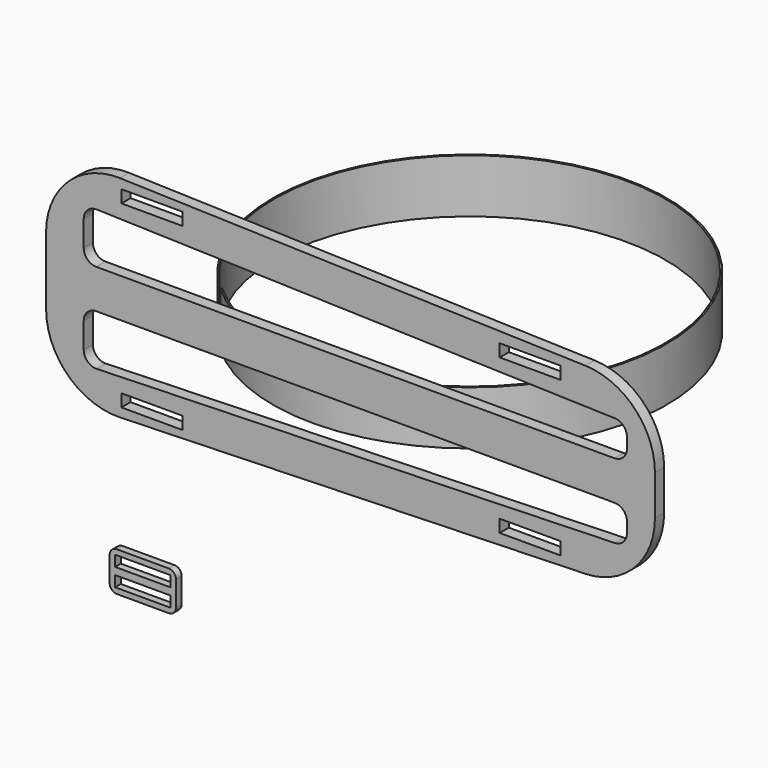
from build123d import *

# Parameters (mm, degrees)
F0_W     = 17
F0_H     = 3.5
F1_DEPTH = 3.2
F2_W     = 15.5
F2_H     = 3
F3_DEPTH = 2
F5_DEPTH = 15


with BuildPart() as f1:
    # F0 (on Front) → F1 (new body)
    with BuildSketch(Plane.XZ):
        with BuildLine():
            ThreePointArc((-43.80942, 52.71233), (-58.331431, 47.07027), (-64.399472, 32.721036))
            Line((-64.399472, 32.721036), (-64.399472, 23.318184))
            Line((-64.399472, 23.318184), (105.526528, 23.306376))
            Line((105.526528, 23.306376), (105.526528, 28.886212))
            ThreePointArc((105.526528, 28.886212), (99.875762, 42.818171), (86.11658, 48.877506))
            Line((86.11658, 48.877506), (-43.80942, 52.71233))
        make_face()
        Polygon((-26.371657, 50.131083), (-26.372144, 46.631083), (-43.372144, 46.633446), (-43.371657, 50.133446), align=None, mode=Mode.SUBTRACT)
        with BuildLine():
            ThreePointArc((94.324163, 38.6309), (96.73202, 37.570517), (97.720904, 35.132424))
            Line((97.720904, 35.132424), (97.720904, 32.268037))
            ThreePointArc((97.720904, 32.268037), (96.695777, 29.793163), (94.220904, 28.768037))
            Line((94.220904, 28.768037), (-50.392183, 28.768037))
            ThreePointArc((-50.392183, 28.768037), (-52.867057, 29.793163), (-53.892183, 32.268037))
            Line((-53.892183, 32.268037), (-53.892183, 39.400744))
            ThreePointArc((-53.892183, 39.400744), (-52.830276, 41.91186), (-50.288924, 42.899221))
            Line((-50.288924, 42.899221), (94.324163, 38.6309))
        make_face(mode=Mode.SUBTRACT)
        Polygon((62.195953, 43.118775), (62.196439, 46.618775), (79.196439, 46.616412), (79.195953, 43.116412), align=None, mode=Mode.SUBTRACT)
        with BuildLine():
            Line((105.526528, 23.306376), (-64.399472, 23.318184))
            Line((-64.399472, 23.318184), (-64.399472, 13.915332))
            ThreePointArc((-64.399472, 13.915332), (-58.332734, -0.432637), (-43.81305, -6.076069))
            Line((-43.81305, -6.076069), (86.112949, -2.26486))
            ThreePointArc((86.112949, -2.26486), (99.874497, 3.79328), (105.526528, 17.726541))
            Line((105.526528, 17.726541), (105.526528, 23.306376))
        make_face()
        with Locations((-34.875384, -1.75)):
            Rectangle(F0_W, F0_H, mode=Mode.SUBTRACT)
        with Locations((70.6932, 1.75)):
            Rectangle(F0_W, F0_H, mode=Mode.SUBTRACT)
        with BuildLine():
            Line((-50.392941, 17.866385), (94.220145, 17.846288))
            ThreePointArc((94.220145, 17.846288), (96.694876, 16.820817), (97.719658, 14.345801))
            Line((97.719658, 14.345801), (97.71926, 11.481414))
            ThreePointArc((97.71926, 11.481414), (96.730038, 9.043459), (94.322033, 7.98341))
            Line((94.322033, 7.98341), (-50.291646, 3.735186))
            ThreePointArc((-50.291646, 3.735186), (-52.83286, 4.7229), (-53.894419, 7.234163))
            Line((-53.894419, 7.234163), (-53.893427, 14.366871))
            ThreePointArc((-53.893427, 14.366871), (-52.867957, 16.841602), (-50.392941, 17.866385))
        make_face(mode=Mode.SUBTRACT)
    extrude(amount=F1_DEPTH)


with BuildPart() as f3:
    # F2 (on Front) → F3 (new body)
    with BuildSketch(Plane.XZ):
        with BuildLine():
            Line((-31.115178, -39.553889), (-45.615178, -39.553889))
            ThreePointArc((-45.615178, -39.553889), (-47.029391, -40.139676), (-47.615178, -41.553889))
            Line((-47.615178, -41.553889), (-47.615178, -48.553889))
            ThreePointArc((-47.615178, -48.553889), (-47.029391, -49.968103), (-45.615178, -50.553889))
            Line((-45.615178, -50.553889), (-31.115178, -50.553889))
            ThreePointArc((-31.115178, -50.553889), (-29.700964, -49.968103), (-29.115178, -48.553889))
            Line((-29.115178, -48.553889), (-29.115178, -41.553889))
            ThreePointArc((-29.115178, -41.553889), (-29.700964, -40.139676), (-31.115178, -39.553889))
        make_face()
        with Locations((-38.365178, -47.553889)):
            Rectangle(F2_W, F2_H, mode=Mode.SUBTRACT)
        with Locations((-38.365178, -42.553889)):
            Rectangle(F2_W, F2_H, mode=Mode.SUBTRACT)
    extrude(amount=F3_DEPTH)


with BuildPart() as f5:
    # F4 (on Top) → F5 (new body)
    with BuildSketch(Plane.XY):
        with BuildLine():
            Line((-39.095646, 26.683898), (-39.400516, 26.352908))
            ThreePointArc((-39.400516, 26.352908), (38.645815, 103.707479), (-46.108128, 33.766585))
            Line((-46.108128, 33.766585), (-45.748378, 34.036918))
            ThreePointArc((-45.748378, 34.036918), (38.312124, 103.405568), (-39.095646, 26.683898))
        make_face()
    extrude(amount=F5_DEPTH)


solid = Compound([f1.part, f3.part, f5.part])
